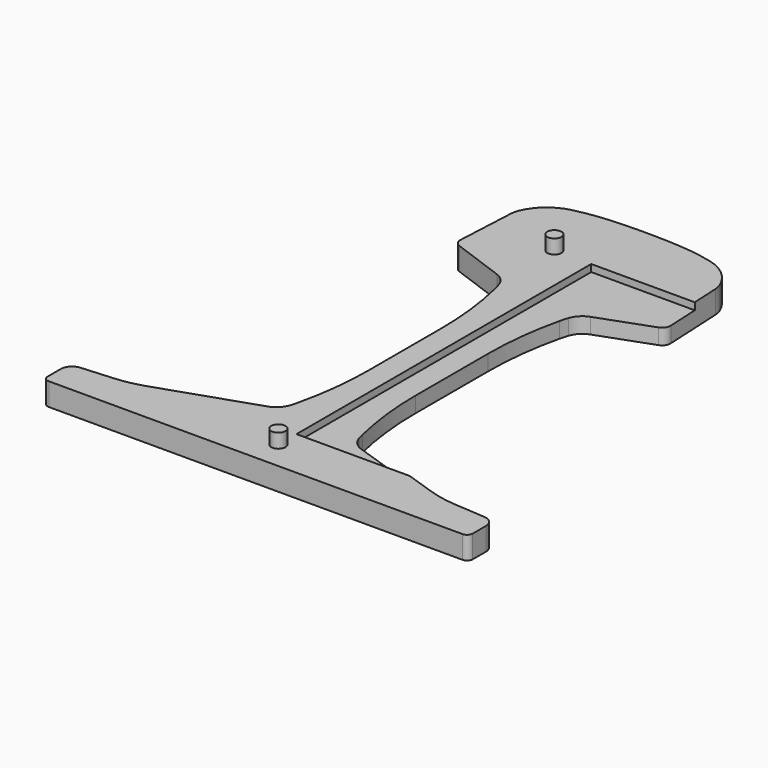
from build123d import *

# Parameters (mm, degrees)
F1_DEPTH = 8
F2_W     = 118.303065
F2_H     = 130
F3_DEPTH = 2.5
F4_R     = 2.5
F5_DEPTH = 5


with BuildPart() as f1:
    # F0 (on Top) → F1 (new body)
    with BuildSketch(Plane.XY):
        with BuildLine():
            Line((-73, 0), (0, 0))
            Line((0, 0), (73, 0))
            ThreePointArc((73, 0), (74.414214, 0.585786), (75, 2))
            Line((75, 2), (75, 7.775523))
            ThreePointArc((75, 7.775523), (73.927452, 10.50133), (71.284988, 11.765358))
            Line((71.284988, 11.765358), (60.101284, 12.564194))
            ThreePointArc((60.101284, 12.564194), (55.064204, 13.247802), (50.154497, 14.564715))
            Line((50.154497, 14.564715), (16.502155, 25.927844))
            ThreePointArc((16.502155, 25.927844), (13.721064, 27.682003), (12.047716, 30.512454))
            ThreePointArc((12.047716, 30.512454), (11.731046, 31.611641), (11.450465, 32.720588))
            ThreePointArc((11.450465, 32.720588), (9.052802, 46.392588), (8.25, 60.25))
            Line((8.25, 60.25), (8.25, 92.25))
            ThreePointArc((8.25, 92.25), (9.052802, 106.107412), (11.450465, 119.779412))
            ThreePointArc((11.450465, 119.779412), (11.814902, 121.192928), (12.237963, 122.590018))
            ThreePointArc((12.237963, 122.590018), (13.860893, 125.287212), (16.501569, 127.000568))
            Line((16.501569, 127.000568), (35.134496, 133.776176))
            ThreePointArc((35.134496, 133.776176), (36.60869, 134.936374), (37.105525, 136.745369))
            Line((37.105525, 136.745369), (36.057795, 157.7))
            ThreePointArc((36.057795, 157.7), (35.86861, 159.074474), (35.444795, 160.395592))
            ThreePointArc((35.444795, 160.395592), (31.086723, 166.367805), (24.508944, 169.743151))
            ThreePointArc((24.508944, 169.743151), (18.300743, 170.974097), (12.006736, 171.63927))
            ThreePointArc((12.006736, 171.63927), (6.006077, 171.909797), (0, 172))
            ThreePointArc((0, 172), (-6.006077, 171.909797), (-12.006736, 171.63927))
            ThreePointArc((-12.006736, 171.63927), (-18.300743, 170.974097), (-24.508944, 169.743151))
            ThreePointArc((-24.508944, 169.743151), (-31.086723, 166.367805), (-35.444795, 160.395592))
            ThreePointArc((-35.444795, 160.395592), (-35.86861, 159.074474), (-36.057795, 157.7))
            Line((-36.057795, 157.7), (-37.105525, 136.745369))
            ThreePointArc((-37.105525, 136.745369), (-36.60869, 134.936374), (-35.134496, 133.776176))
            Line((-35.134496, 133.776176), (-16.501569, 127.000568))
            ThreePointArc((-16.501569, 127.000568), (-13.860893, 125.287212), (-12.237963, 122.590018))
            ThreePointArc((-12.237963, 122.590018), (-11.814902, 121.192928), (-11.450465, 119.779412))
            ThreePointArc((-11.450465, 119.779412), (-9.052802, 106.107412), (-8.25, 92.25))
            Line((-8.25, 92.25), (-8.25, 60.25))
            ThreePointArc((-8.25, 60.25), (-9.052802, 46.392588), (-11.450465, 32.720588))
            ThreePointArc((-11.450465, 32.720588), (-11.731046, 31.611641), (-12.047716, 30.512454))
            ThreePointArc((-12.047716, 30.512454), (-13.721064, 27.682003), (-16.502155, 25.927844))
            Line((-16.502155, 25.927844), (-50.154497, 14.564715))
            ThreePointArc((-50.154497, 14.564715), (-55.064204, 13.247802), (-60.101284, 12.564194))
            Line((-60.101284, 12.564194), (-71.284988, 11.765358))
            ThreePointArc((-71.284988, 11.765358), (-73.927452, 10.50133), (-75, 7.775523))
            Line((-75, 7.775523), (-75, 2))
            ThreePointArc((-75, 2), (-74.414214, 0.585786), (-73, 0))
        make_face()
    extrude(amount=F1_DEPTH)

    # F2 (on face) → F3 (cut)
    with BuildSketch(Plane.XY.offset(8)):
        with Locations((59.151532, 83)):
            Rectangle(F2_W, F2_H)
    extrude(amount=-F3_DEPTH, mode=Mode.SUBTRACT)

    # F4 (on face) → F5 (join)
    with BuildSketch(Plane.XY.offset(8)):
        with Locations((0, 10)):
            Circle(F4_R)
        with Locations((-13, 148)):
            Circle(F4_R)
    extrude(amount=F5_DEPTH)


solid = f1.part
